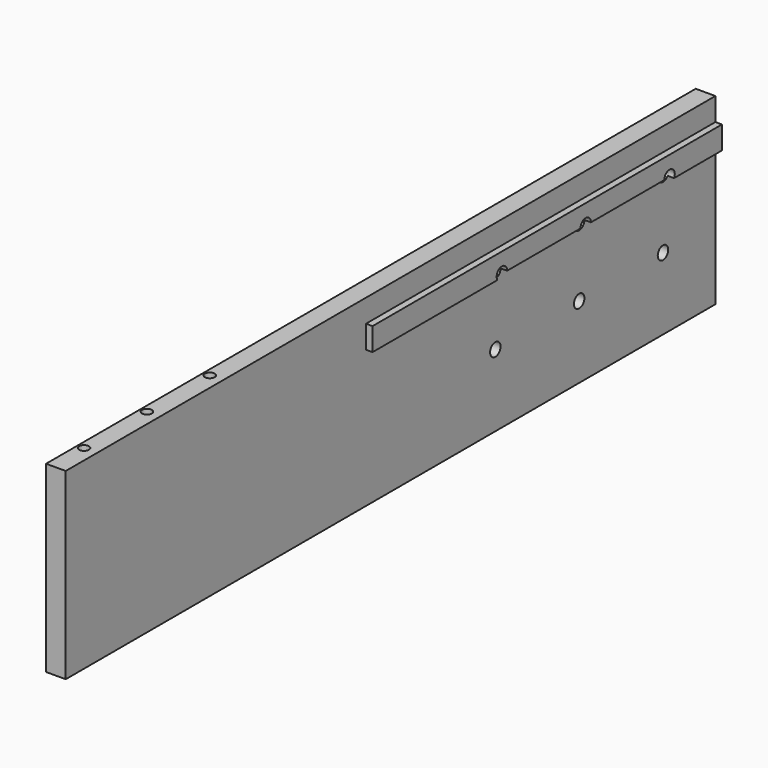
from build123d import *

# Parameters (mm, degrees)
F0_W     = 787.4
F0_H     = 177.8
F1_DEPTH = 19.05
F4_D     = 12.7
F5_D     = 9.525
F7_DEPTH = 6.35
F8_D     = 12.7


with BuildPart() as f1:
    # F0 (on Right) → F1 (new body)
    with BuildSketch(Plane.YZ):
        with Locations((29.7667551786, 66.8366326568)):
            Rectangle(F0_W, F0_H)
    extrude(amount=F1_DEPTH)

    # F4 (through all)
    with Locations(Plane.YZ.offset(19.05)):
        with Locations((156.7667551786, 47.7866326568), (258.3667551786, 47.7866326568), (359.9667551786, 47.7866326568)):
            Hole(F4_D / 2)

    # F5 (through all)
    with Locations(Plane.XY.offset(155.7366326568)):
        with Locations((6.35, -173.4332448214), (6.35, -249.6332448214), (6.35, -325.8332448214)):
            Hole(F5_D / 2)

    # F6 (on face) → F7 (join, symmetric)
    with BuildSketch(Plane.YZ.offset(19.05)):
        with BuildLine():
            Line((423.4667551786, 111.2866326568), (423.4667551786, 133.5116326568))
            Line((423.4667551786, 133.5116326568), (0, 133.5116326568))
            Line((0, 133.5116326568), (0, 111.2866326568))
            Line((0, 111.2866326568), (151.2674938645, 111.2866326568))
            ThreePointArc((151.2674938645, 111.2866326568), (155.1232542422, 120.5952616538), (163.1167551786, 114.4616326568))
            Line((163.1167551786, 114.4616326568), (252.0167551786, 114.4616326568))
            ThreePointArc((252.0167551786, 114.4616326568), (258.3667551786, 120.8116326568), (264.7167551786, 114.4616326568))
            Line((264.7167551786, 114.4616326568), (353.6167551786, 114.4616326568))
            ThreePointArc((353.6167551786, 114.4616326568), (359.9667551786, 120.8116326568), (366.3167551786, 114.4616326568))
            ThreePointArc((366.3167551786, 114.4616326568), (366.1003841755, 112.8181317204), (365.4660164926, 111.2866326568))
            Line((365.4660164926, 111.2866326568), (423.4667551786, 111.2866326568))
        make_face()
    extrude(amount=F7_DEPTH, both=True)

    # F8 (through all)
    with Locations(Plane.YZ.offset(19.05)):
        with Locations((359.9667551786, 114.4616326568), (258.3667551786, 114.4616326568), (156.7667551786, 114.4616326568)):
            Hole(F8_D / 2)


solid = f1.part
